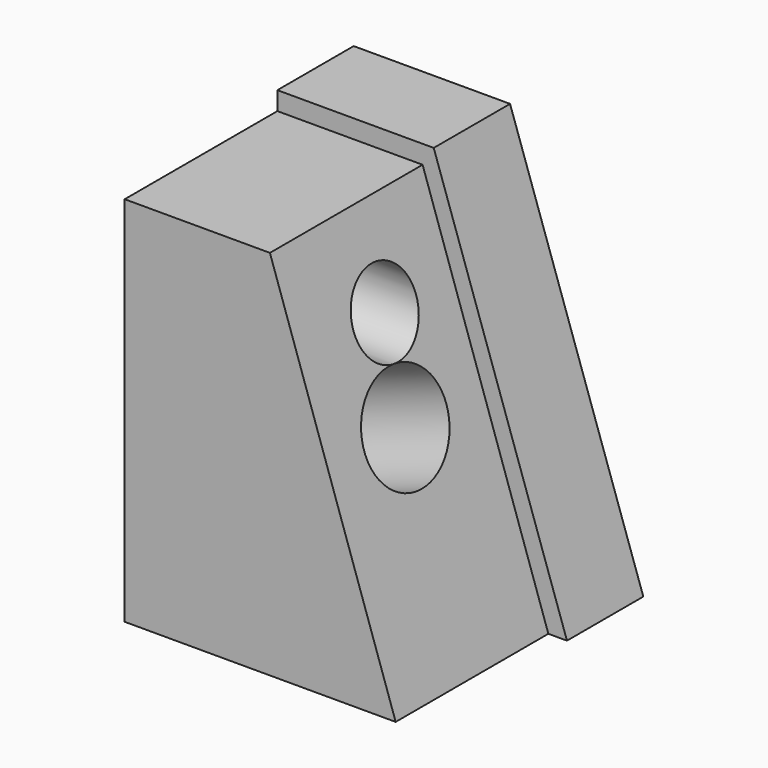
from build123d import *

# Parameters (mm, degrees)
F1_DEPTH      = 76.2
F2_DEPTH      = 25.4
F3_R          = 13.6695760471
F4_DEPTH      = 120.65
F5_R          = 10.4216060464
F6_DEPTH      = 108.204
F6_DEPTH_BACK = 97.028


with BuildPart() as f1:
    # F0 (on Front) → F1 (new body)
    with BuildSketch(Plane.XZ):
        Polygon((36.0692664981, -49.5205111802), (2.5906101801, 49.5205111802), (-36.0692664981, 49.5205111802), (-36.0692664981, -49.5205111802), align=None)
    extrude(amount=F1_DEPTH)

    # F0 (on Front) → F2 (join)
    with BuildSketch(Plane.XZ):
        Polygon((36.0692664981, -49.5205111802), (2.5906101801, 49.5205111802), (-36.0692664981, 49.5205111802), (-36.0692664981, -49.5205111802), align=None)
        Polygon((-36.0692664981, 49.5205111802), (2.5906101801, 49.5205111802), (36.0692664981, -49.5205111802), (41.0287082195, -49.5205111802), (5.5572725832, 54.4315949082), (-36.0692664981, 54.4315949082), align=None)
    extrude(amount=F2_DEPTH)

    # F3 (on face) → F4 (cut)
    with BuildSketch(Plane(origin=(17.3477334247, 0, 5.8640227189), x_dir=(0, 1, 0), z_dir=(0.9473405682, 0, 0.3202278061))):
        with Locations((-50.689227879, -2.7265385725)):
            Circle(F3_R)
    extrude(amount=-F4_DEPTH, mode=Mode.SUBTRACT)

    # F5 (on Right) → F6 (cut, two sides)
    with BuildSketch(Plane.YZ) as f6_sk:
        with Locations((-47.7300770581, 26.4613311738)):
            Circle(F5_R)
    extrude(amount=F6_DEPTH, mode=Mode.SUBTRACT)
    extrude(f6_sk.sketch, amount=-F6_DEPTH_BACK, mode=Mode.SUBTRACT)


solid = f1.part
